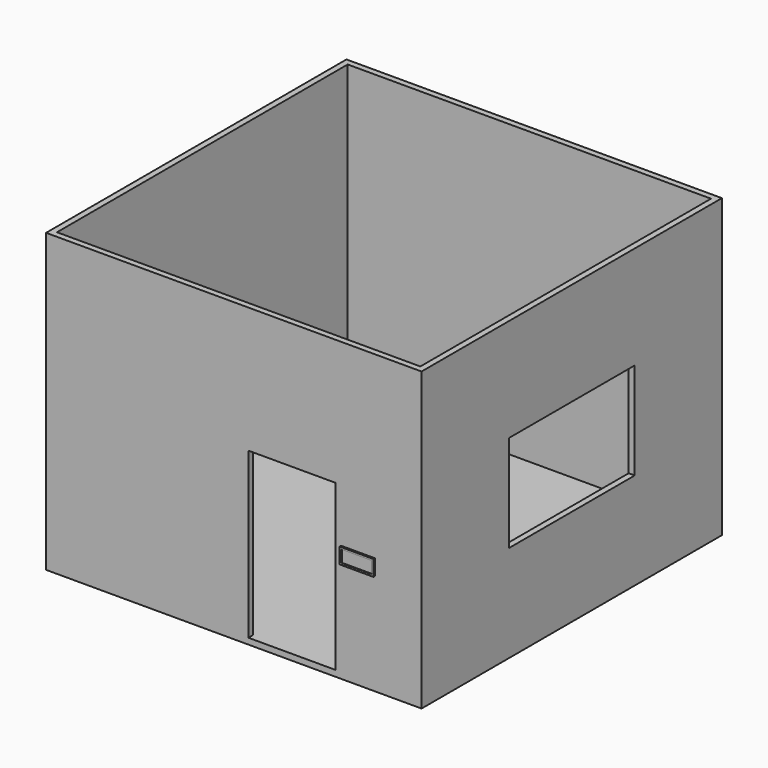
from build123d import *

# Parameters (mm, degrees)
F0_W          = 381
F0_H          = 381
F1_DEPTH      = 6.35
F2_W          = 393.7
F2_H          = 393.7
F2_W_2        = 381
F2_H_2        = 381
F3_DEPTH      = 304.8
F3_DEPTH_BACK = 6.35
F4_W          = 91.44
F4_H          = 172.72
F5_DEPTH      = 25.4
F6_W          = 165.1
F6_H          = 50.8
F7_DEPTH      = 25.4
F8_W          = 31.75
F8_H          = 12.7
F9_DEPTH      = 1.27
F8_W_2        = 35.56
F8_H_2        = 16.51
F10_DEPTH     = 1.905


with BuildPart() as f1:
    # F0 (on Top) → F1 (new body)
    with BuildSketch(Plane.XY):
        with Locations((-9.435589, 114.986119)):
            Rectangle(F0_W, F0_H)
    extrude(amount=F1_DEPTH)

    # F2 (on face) → F3 (join, two sides)
    with BuildSketch(Plane.XY.offset(6.35)) as f3_sk:
        with Locations((-9.435589, 114.986119)):
            Rectangle(F2_W, F2_H)
        with Locations((-9.435589, 114.986119)):
            Rectangle(F2_W_2, F2_H_2, mode=Mode.SUBTRACT)
    extrude(amount=F3_DEPTH)
    extrude(f3_sk.sketch, amount=-F3_DEPTH_BACK)

    # F4 (on face) → F5 (cut)
    with BuildSketch(Plane.XZ.offset(81.863881)):
        with Locations((51.556636, 92.71)):
            Rectangle(F4_W, F4_H)
    extrude(amount=-F5_DEPTH, mode=Mode.SUBTRACT)

    # F6 (on face) → F7 (cut)
    with BuildSketch(Plane.YZ.offset(187.414411)):
        Polygon((32.436119, 155.575), (32.436119, 152.4), (197.536119, 152.4), (197.536119, 203.2), (32.436119, 203.2), align=None)
        with Locations((114.986119, 127)):
            Rectangle(F6_W, F6_H)
    extrude(amount=-F7_DEPTH, mode=Mode.SUBTRACT)

    # F8 (on face) → F9 (join)
    with BuildSketch(Plane.XZ.offset(81.863881)):
        with Locations((120.726646, 114.625568)):
            Rectangle(F8_W, F8_H)
    extrude(amount=F9_DEPTH)

    # F8 (on face) → F10 (join)
    with BuildSketch(Plane.XZ.offset(81.863881)):
        with Locations((120.726646, 114.625568)):
            Rectangle(F8_W_2, F8_H_2)
        with Locations((120.726646, 114.625568)):
            Rectangle(F8_W, F8_H, mode=Mode.SUBTRACT)
    extrude(amount=F10_DEPTH)


solid = f1.part
